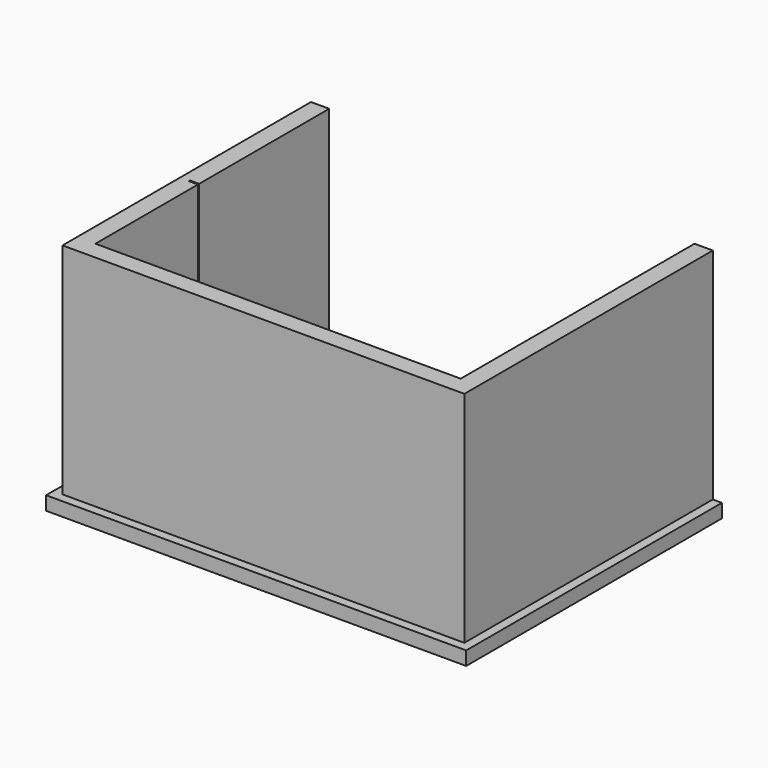
from build123d import *

# Parameters (mm, degrees)
F0_W     = 101.6
F0_H     = 3454.4
F0_W_2   = 3860.8
F0_H_2   = 101.6
F0_H_3   = 1808.7664033026
F0_H_4   = 16.1229241639
F1_DEPTH = 152.4
F2_DEPTH = 2438.4


with BuildPart() as f1:
    # F0 (on Top) → F1 (new body)
    with BuildSketch(Plane.XY):
        with Locations((4318, 50.8)):
            Rectangle(F0_W, F0_H)
        with Locations((2133.6, -1727.2)):
            Rectangle(F0_W_2, F0_H_2)
        with Locations((2133.6, -1422.4)):
            Rectangle(F0_W_2, F0_H_2)
        Polygon((4064, 1778), (4064, -1371.6), (4064, -1473.2), (4165.6, -1473.2), (4165.6, 1778), align=None)
        Polygon((203.2, -46.8893274665), (101.6, -46.8893274665), (101.6, -1473.2), (203.2, -1473.2), (203.2, -1371.6), align=None)
        Polygon((4064, -1676.4), (4064, -1778), (4470.4, -1778), (4470.4, 1778), (4368.8, 1778), (4368.8, -1676.4), (4267.2, -1676.4), (4165.6, -1676.4), align=None)
        Polygon((-101.6, -46.8893274665), (-203.2, -46.8893274665), (-203.2, -1778), (203.2, -1778), (203.2, -1676.4), (101.6, -1676.4), (0, -1676.4), (-101.6, -1676.4), align=None)
        Polygon((4165.6, -1574.8), (4165.6, -1676.4), (4267.2, -1676.4), (4267.2, 1778), (4165.6, 1778), (4165.6, -1473.2), align=None)
        Polygon((0, -46.8893274665), (-101.6, -46.8893274665), (-101.6, -1676.4), (0, -1676.4), (0, -1574.8), align=None)
        Polygon((101.6, -46.8893274665), (0, -46.8893274665), (0, -1574.8), (101.6, -1574.8), (101.6, -1473.2), align=None)
        with Locations((50.8, -1625.6)):
            Rectangle(F0_W, F0_H_2)
        with Locations((2133.6, -1524)):
            Rectangle(F0_W_2, F0_H_2)
        with Locations((2133.6, -1625.6)):
            Rectangle(F0_W_2, F0_H_2)
        with Locations((152.4, -1524)):
            Rectangle(F0_W, F0_H_2)
        with Locations((152.4, -1625.6)):
            Rectangle(F0_W, F0_H_2)
        with Locations((4114.8, -1524)):
            Rectangle(F0_W, F0_H_2)
        with Locations((4114.8, -1625.6)):
            Rectangle(F0_W, F0_H_2)
        with Locations((-152.4, 873.6167983487)):
            Rectangle(F0_W, F0_H_3)
        with Locations((-50.8, 873.6167983487)):
            Rectangle(F0_W, F0_H_3)
        with Locations((50.8, 873.6167983487)):
            Rectangle(F0_W, F0_H_3)
        with Locations((152.4, 873.6167983487)):
            Rectangle(F0_W, F0_H_3)
        with Locations((-50.8, -38.8278653845)):
            Rectangle(F0_W, F0_H_4)
    extrude(amount=-F1_DEPTH)

    # F0 (on Top) → F2 (join)
    with BuildSketch(Plane.XY):
        Polygon((0, -46.8893274665), (-101.6, -46.8893274665), (-101.6, -1676.4), (0, -1676.4), (0, -1574.8), align=None)
        Polygon((101.6, -46.8893274665), (0, -46.8893274665), (0, -1574.8), (101.6, -1574.8), (101.6, -1473.2), align=None)
        with Locations((50.8, -1625.6)):
            Rectangle(F0_W, F0_H_2)
        with Locations((2133.6, -1524)):
            Rectangle(F0_W_2, F0_H_2)
        with Locations((2133.6, -1625.6)):
            Rectangle(F0_W_2, F0_H_2)
        with Locations((152.4, -1524)):
            Rectangle(F0_W, F0_H_2)
        with Locations((152.4, -1625.6)):
            Rectangle(F0_W, F0_H_2)
        with Locations((4114.8, -1625.6)):
            Rectangle(F0_W, F0_H_2)
        with Locations((4114.8, -1524)):
            Rectangle(F0_W, F0_H_2)
        Polygon((4165.6, -1574.8), (4165.6, -1676.4), (4267.2, -1676.4), (4267.2, 1778), (4165.6, 1778), (4165.6, -1473.2), align=None)
        with Locations((4318, 50.8)):
            Rectangle(F0_W, F0_H)
        with Locations((-50.8, 873.6167983487)):
            Rectangle(F0_W, F0_H_3)
        with Locations((50.8, 873.6167983487)):
            Rectangle(F0_W, F0_H_3)
        with Locations((-50.8, -38.8278653845)):
            Rectangle(F0_W, F0_H_4)
    extrude(amount=F2_DEPTH)


solid = f1.part
